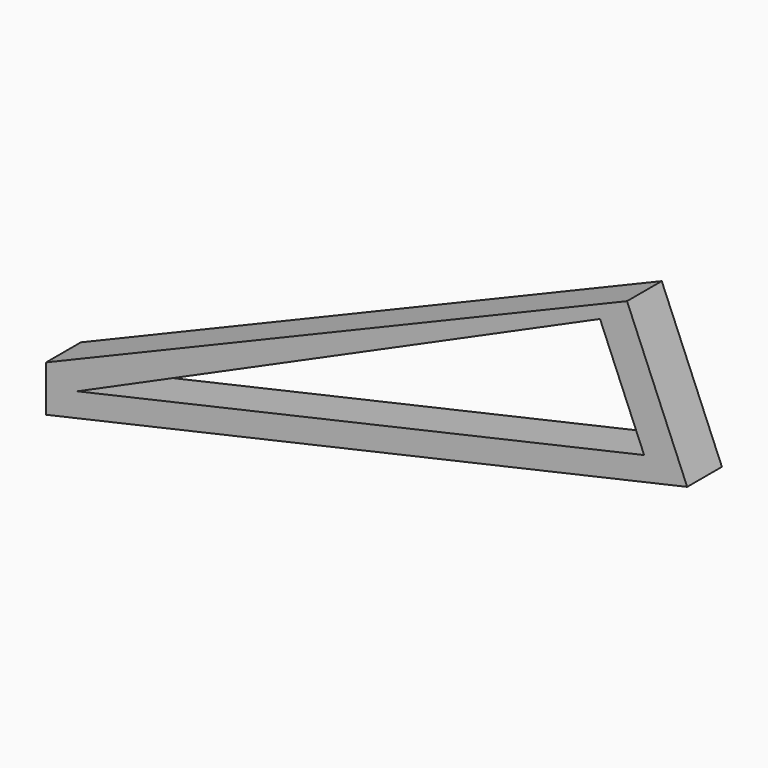
from build123d import *

# Parameters (mm, degrees)
F1_DEPTH = 2
F3_DEPTH = 2.001


with BuildPart() as f1:
    # F0 (on Front) → F1 (new body)
    with BuildSketch(Plane.XZ):
        Polygon((26.769334, 11.189299), (0, 0), (0, -2.12455), (29.541994, 4.555975), align=None)
    extrude(amount=F1_DEPTH)

    # F2 (on face) → F3 (cut, through all)
    with BuildSketch(Plane.XZ.offset(2)):
        Polygon((27.557338, 5.201422), (25.525611, 10.062135), (1.442955, -0.703995), align=None)
    extrude(amount=-F3_DEPTH, mode=Mode.SUBTRACT)


solid = f1.part
